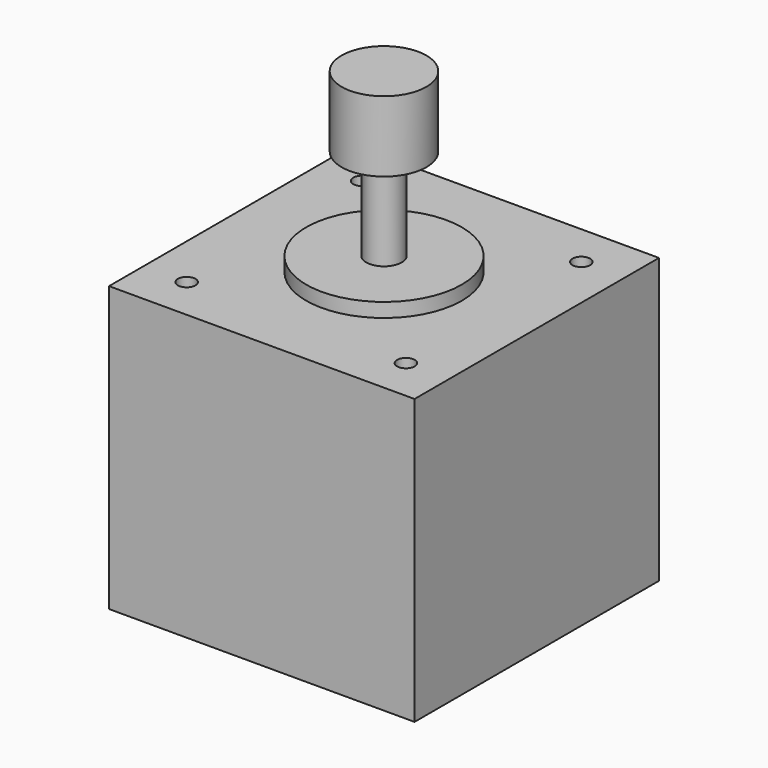
from build123d import *

# Parameters (mm, degrees)
F0_W     = 43.2
F0_H     = 43.2
F1_DEPTH = 40.2
F2_R     = 2.5
F3_DEPTH = 25
F4_D     = 2.5
F4_DEPTH = 13.5
F4_TIP   = 0.7510757738
F5_R     = 11
F6_DEPTH = 2
F7_R     = 6
F8_DEPTH = 10


with BuildPart() as f1:
    # F0 (on Top) → F1 (new body)
    with BuildSketch(Plane.XY):
        Rectangle(F0_W, F0_H)
    extrude(amount=F1_DEPTH)

    # F4
    with Locations(Plane.XY.offset(40.2)):
        with Locations((-15.5, -15.5), (-15.5, 15.5), (15.5, 15.5), (15.5, -15.5)):
            Hole(F4_D / 2, depth=F4_DEPTH)
            with Locations((0, 0, -(F4_DEPTH + F4_TIP / 2))):  # 118° drill point
                Cone(0, F4_D / 2, F4_TIP, mode=Mode.SUBTRACT)


with BuildPart() as f3:
    # F2 (on face) → F3 (new body)
    with BuildSketch(Plane.XY.offset(40.2)):
        Circle(F2_R)
    extrude(amount=F3_DEPTH)

    # F7 (on face) → F8 (join)
    with BuildSketch(Plane.XY.offset(65.2)):
        Circle(F7_R)
    extrude(amount=-F8_DEPTH)


with BuildPart() as f6:
    # F5 (on face) → F6 (new body)
    with BuildSketch(Plane.XY.offset(40.2)):
        Circle(F5_R)
    extrude(amount=F6_DEPTH)


solid = Compound([f1.part, f3.part, f6.part])
